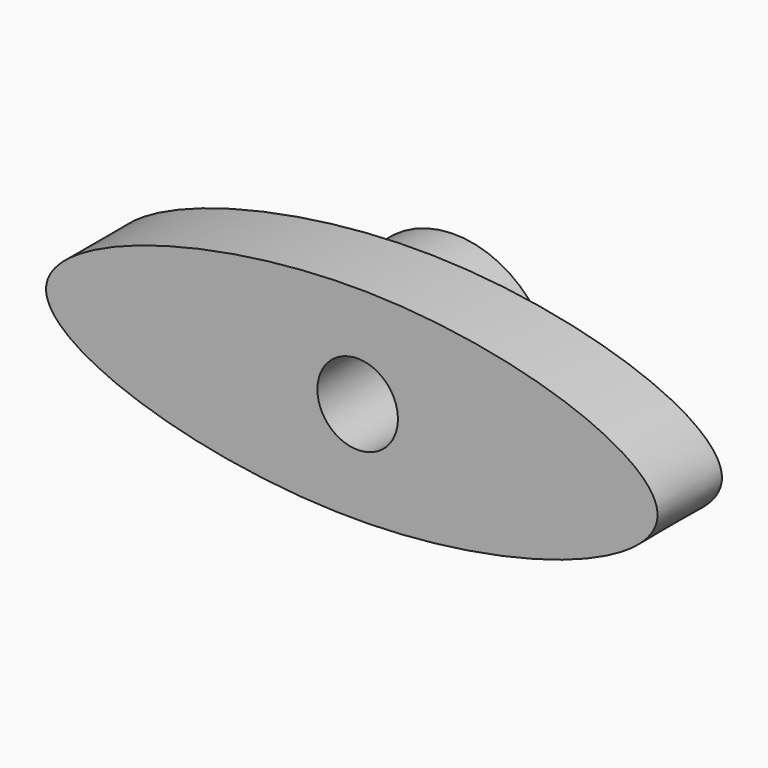
from build123d import *

# Parameters (mm, degrees)
F0_R     = 25
F1_DEPTH = 10
F2_R     = 15
F3_DEPTH = 10
F5_DEPTH = 20
F6_R     = 10
F7_DEPTH = 25


with BuildPart() as f1:
    # F0 (on Front) → F1 (new body, symmetric)
    with BuildSketch(Plane.XZ):
        Circle(F0_R)
    extrude(amount=F1_DEPTH, both=True)

    # F2 (on Front) → F3 (cut, through all)
    with BuildSketch(Plane.XZ):
        Circle(F2_R)
    extrude(amount=F3_DEPTH, mode=Mode.SUBTRACT)

    # F4 (on Front) → F5 (join)
    with BuildSketch(Plane.XZ):
        with BuildLine():
            add(Edge.make_bspline(
                [(-77.4218812204, 0), (-77.4215213056, 12.7321060804), (0.1456770976, 37.9714820309), (111.3686131507, 0.0032495259), (0.1457296307, -37.9859056359), (-77.4222411402, -12.732283472), (-77.4218812204, 0)],
                knots=[0, 0, 0, 0, 0.2521558752, 0.4999963934, 0.7478406116, 1, 1, 1, 1], degree=3))
        make_face()
    extrude(amount=F5_DEPTH)

    # F6 (on face) → F7 (cut, symmetric)
    with BuildSketch(Plane(origin=(0, 0, 0), x_dir=(-1, 0, 0), z_dir=(0, 1, 0))):
        Circle(F6_R)
    extrude(amount=F7_DEPTH, both=True, mode=Mode.SUBTRACT)


solid = f1.part
